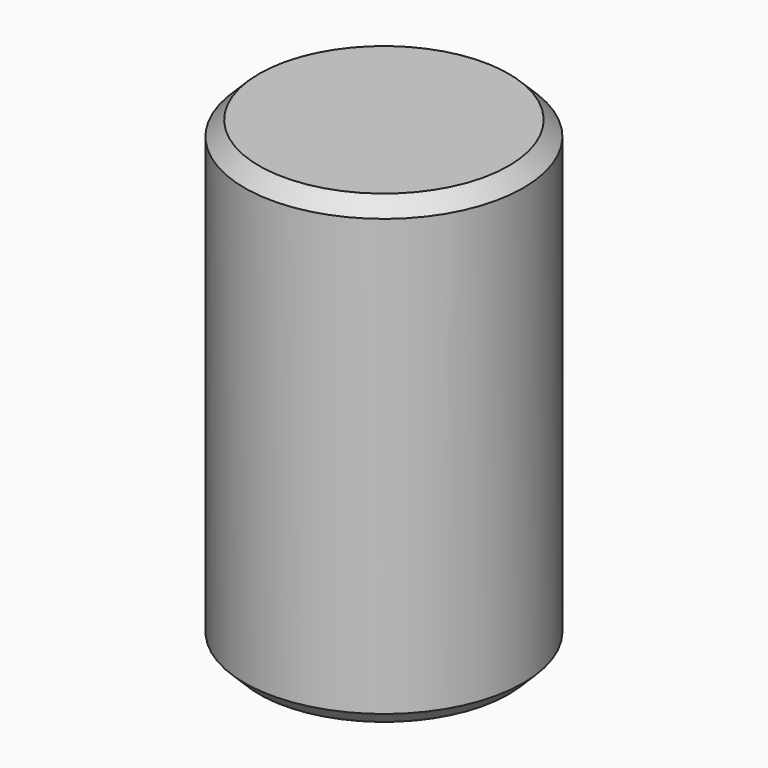
from build123d import *

# Parameters (mm, degrees)
SKETCH_R     = 2.38
PAD_DEPTH    = 7.94
CHAMFER_SIZE = 0.25


with BuildPart() as part:
    # Sketch → Pad (new body)
    with BuildSketch(Plane.XY):
        Circle(SKETCH_R)
    extrude(amount=PAD_DEPTH)

    # Chamfer
    chamfer_edges = [part.edges().sort_by_distance(p)[0] for p in [
        (-2.38, 0, 7.94),
        (-2.38, 0, 0),
    ]]
    chamfer(chamfer_edges, length=CHAMFER_SIZE)


solid = part.part
